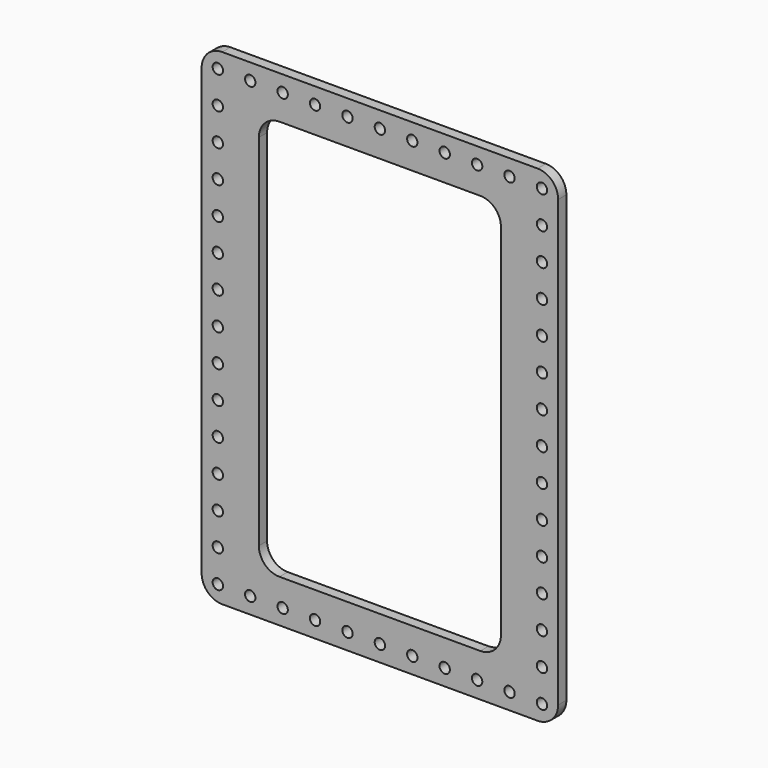
from build123d import *

# Parameters (mm, degrees)
F0_R     = 1.6
F1_DEPTH = 3.175


with BuildPart() as f1:
    # F0 (on Front) → F1 (new body)
    with BuildSketch(Plane.XZ):
        with BuildLine():
            Line((63.081035, 75.419807), (-34.218965, 75.419807))
            ThreePointArc((-34.218965, 75.419807), (-38.709093, 73.559935), (-40.568965, 69.069807))
            Line((-40.568965, 69.069807), (-40.568965, -68.230193))
            ThreePointArc((-40.568965, -68.230193), (-38.709093, -72.720321), (-34.218965, -74.580193))
            Line((-34.218965, -74.580193), (63.081035, -74.580193))
            ThreePointArc((63.081035, -74.580193), (67.571163, -72.720321), (69.431035, -68.230193))
            Line((69.431035, -68.230193), (69.431035, 69.069807))
            ThreePointArc((69.431035, 69.069807), (67.571163, 73.559935), (63.081035, 75.419807))
        make_face()
        with Locations((-35.568965, -69.560093)):
            Circle(F0_R, mode=Mode.SUBTRACT)
        with Locations((-35.568965, -59.560093)):
            Circle(F0_R, mode=Mode.SUBTRACT)
        with Locations((-25.568965, -69.539993)):
            Circle(F0_R, mode=Mode.SUBTRACT)
        with Locations((-15.568965, -69.539993)):
            Circle(F0_R, mode=Mode.SUBTRACT)
        with Locations((-35.568965, -49.560093)):
            Circle(F0_R, mode=Mode.SUBTRACT)
        with Locations((-35.568965, -39.560093)):
            Circle(F0_R, mode=Mode.SUBTRACT)
        with Locations((-5.568965, -69.539993)):
            Circle(F0_R, mode=Mode.SUBTRACT)
        with Locations((4.431035, -69.539993)):
            Circle(F0_R, mode=Mode.SUBTRACT)
        with Locations((14.431035, -69.539993)):
            Circle(F0_R, mode=Mode.SUBTRACT)
        with Locations((-35.568965, -29.560093)):
            Circle(F0_R, mode=Mode.SUBTRACT)
        with Locations((-35.568965, -19.560093)):
            Circle(F0_R, mode=Mode.SUBTRACT)
        with Locations((-35.568965, -9.560093)):
            Circle(F0_R, mode=Mode.SUBTRACT)
        with Locations((24.431035, -69.539993)):
            Circle(F0_R, mode=Mode.SUBTRACT)
        with Locations((34.431035, -69.539993)):
            Circle(F0_R, mode=Mode.SUBTRACT)
        with Locations((44.431035, -69.539993)):
            Circle(F0_R, mode=Mode.SUBTRACT)
        with Locations((54.431035, -69.539993)):
            Circle(F0_R, mode=Mode.SUBTRACT)
        with Locations((64.431035, -69.560093)):
            Circle(F0_R, mode=Mode.SUBTRACT)
        with Locations((64.431035, -59.560093)):
            Circle(F0_R, mode=Mode.SUBTRACT)
        with Locations((64.431035, -49.560093)):
            Circle(F0_R, mode=Mode.SUBTRACT)
        with Locations((64.431035, -39.560093)):
            Circle(F0_R, mode=Mode.SUBTRACT)
        with Locations((64.431035, -29.560093)):
            Circle(F0_R, mode=Mode.SUBTRACT)
        with Locations((64.431035, -19.560093)):
            Circle(F0_R, mode=Mode.SUBTRACT)
        with Locations((64.431035, -9.560093)):
            Circle(F0_R, mode=Mode.SUBTRACT)
        with Locations((-35.568965, 0.439907)):
            Circle(F0_R, mode=Mode.SUBTRACT)
        with Locations((-35.568965, 10.439907)):
            Circle(F0_R, mode=Mode.SUBTRACT)
        with Locations((-35.568965, 20.439907)):
            Circle(F0_R, mode=Mode.SUBTRACT)
        with Locations((-35.568965, 30.439907)):
            Circle(F0_R, mode=Mode.SUBTRACT)
        with Locations((-35.568965, 40.439907)):
            Circle(F0_R, mode=Mode.SUBTRACT)
        with Locations((-35.568965, 50.439907)):
            Circle(F0_R, mode=Mode.SUBTRACT)
        with Locations((-35.568965, 60.439907)):
            Circle(F0_R, mode=Mode.SUBTRACT)
        with Locations((-35.568965, 70.439907)):
            Circle(F0_R, mode=Mode.SUBTRACT)
        with Locations((-25.568965, 70.419807)):
            Circle(F0_R, mode=Mode.SUBTRACT)
        with Locations((-15.568965, 70.419807)):
            Circle(F0_R, mode=Mode.SUBTRACT)
        with Locations((-5.568965, 70.419807)):
            Circle(F0_R, mode=Mode.SUBTRACT)
        with Locations((4.431035, 70.419807)):
            Circle(F0_R, mode=Mode.SUBTRACT)
        with Locations((14.431035, 70.419807)):
            Circle(F0_R, mode=Mode.SUBTRACT)
        with BuildLine():
            ThreePointArc((-22.913965, 55.899907), (-21.054093, 60.390035), (-16.563965, 62.249907))
            Line((-16.563965, 62.249907), (45.426035, 62.249907))
            ThreePointArc((45.426035, 62.249907), (49.916163, 60.390035), (51.776035, 55.899907))
            Line((51.776035, 55.899907), (51.776035, -55.020093))
            ThreePointArc((51.776035, -55.020093), (49.916163, -59.510221), (45.426035, -61.370093))
            Line((45.426035, -61.370093), (-16.563965, -61.370093))
            ThreePointArc((-16.563965, -61.370093), (-21.054093, -59.510221), (-22.913965, -55.020093))
            Line((-22.913965, -55.020093), (-22.913965, 55.899907))
        make_face(mode=Mode.SUBTRACT)
        with Locations((64.431035, 0.439907)):
            Circle(F0_R, mode=Mode.SUBTRACT)
        with Locations((64.431035, 10.439907)):
            Circle(F0_R, mode=Mode.SUBTRACT)
        with Locations((64.431035, 20.439907)):
            Circle(F0_R, mode=Mode.SUBTRACT)
        with Locations((64.431035, 30.439907)):
            Circle(F0_R, mode=Mode.SUBTRACT)
        with Locations((24.431035, 70.419807)):
            Circle(F0_R, mode=Mode.SUBTRACT)
        with Locations((34.431035, 70.419807)):
            Circle(F0_R, mode=Mode.SUBTRACT)
        with Locations((64.431035, 40.439907)):
            Circle(F0_R, mode=Mode.SUBTRACT)
        with Locations((64.431035, 50.439907)):
            Circle(F0_R, mode=Mode.SUBTRACT)
        with Locations((44.431035, 70.419807)):
            Circle(F0_R, mode=Mode.SUBTRACT)
        with Locations((54.431035, 70.419807)):
            Circle(F0_R, mode=Mode.SUBTRACT)
        with Locations((64.431035, 60.439907)):
            Circle(F0_R, mode=Mode.SUBTRACT)
        with Locations((64.431035, 70.439907)):
            Circle(F0_R, mode=Mode.SUBTRACT)
    extrude(amount=F1_DEPTH)


solid = f1.part
